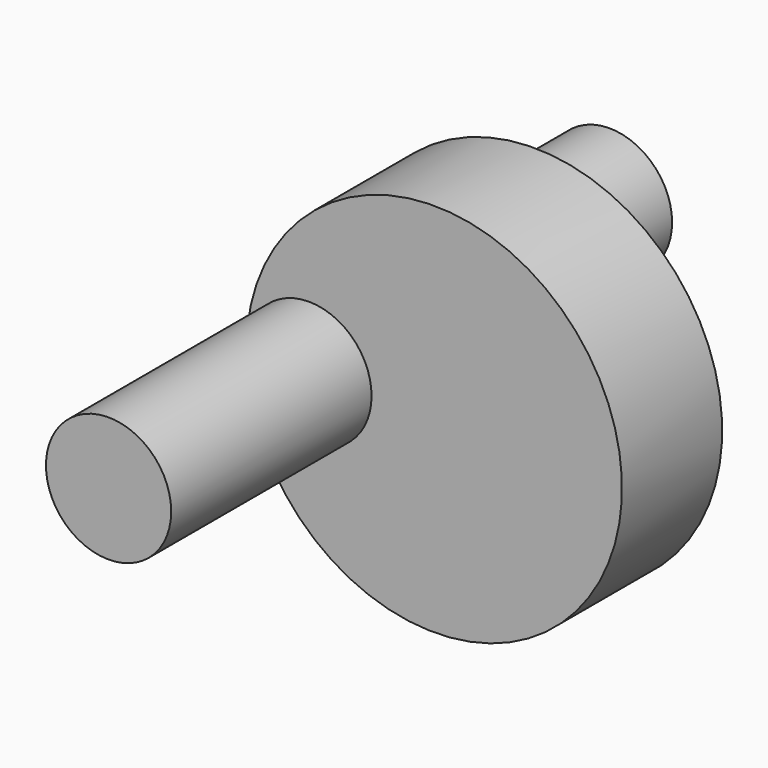
from build123d import *

# Parameters (mm, degrees)
F1_DEPTH = 12.5
F2_DEPTH = 2.5


with BuildPart() as f1:
    # F0 (on Front) → F1 (new body, symmetric)
    with BuildSketch(Plane.XZ):
        with BuildLine():
            ThreePointArc((-2.5, 0), (0, -2.5), (2.5, 0))
            ThreePointArc((2.5, 0), (0, 2.5), (-2.5, 0))
        make_face()
    extrude(amount=F1_DEPTH, both=True)

    # F0 (on Front) → F2 (join, symmetric)
    with BuildSketch(Plane.XZ):
        with BuildLine():
            ThreePointArc((12.5, 0), (5, 7.5), (-2.5, 0))
            ThreePointArc((-2.5, 0), (5, -7.5), (12.5, 0))
        make_face()
        with BuildLine():
            ThreePointArc((-2.5, 0), (0, 2.5), (2.5, 0))
            ThreePointArc((2.5, 0), (0, -2.5), (-2.5, 0))
        make_face(mode=Mode.SUBTRACT)
    extrude(amount=F2_DEPTH, both=True)


solid = f1.part
